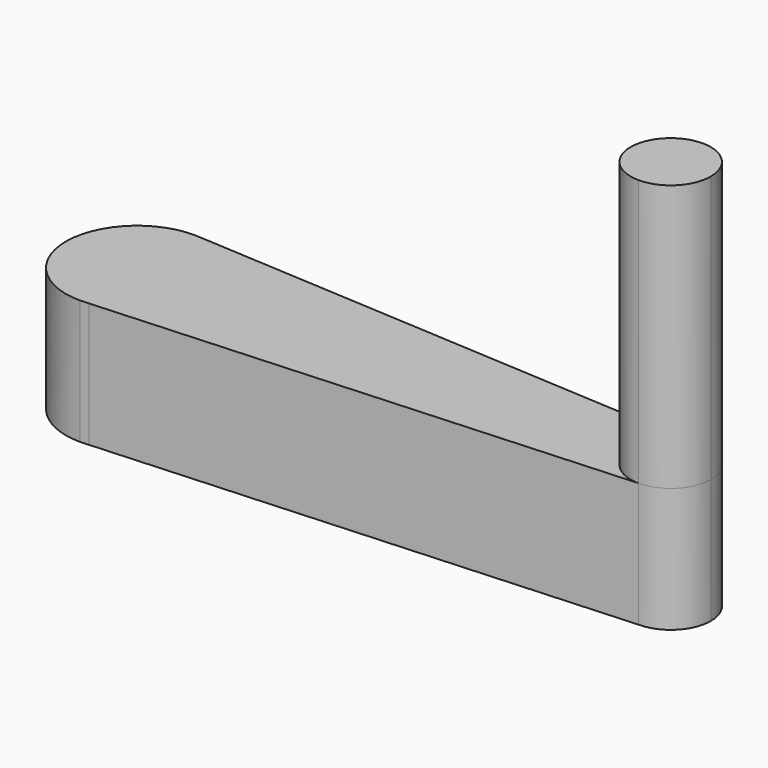
from build123d import *

# Parameters (mm, degrees)
F1_DEPTH = 15
F2_DEPTH = 7


with BuildPart() as f1:
    # F0 (on Top) → F1 (new body)
    with BuildSketch(Plane.XY):
        with BuildLine():
            ThreePointArc((0, 2.25), (-1.5909902577, 1.5909902577), (-2.25, 0))
            ThreePointArc((-2.25, 0), (-1.5909902577, -1.5909902577), (0, -2.25))
            ThreePointArc((0, -2.25), (1.5909902577, -1.5909902577), (2.25, 0))
            ThreePointArc((2.25, 0), (1.5909902577, 1.5909902577), (0, 2.25))
        make_face()
    extrude(amount=F1_DEPTH)

    # F0 (on Top) → F2 (join)
    with BuildSketch(Plane.XY):
        with BuildLine():
            ThreePointArc((0, -2.25), (-1.5909902577, -1.5909902577), (-2.25, 0))
            Line((-2.25, 0), (-26, 0))
            ThreePointArc((-26, 0), (-27.0080973177, -2.654904582), (-29.5242591698, -3.9716080701))
            Line((-29.5242591698, -3.9716080701), (0, -2.25))
        make_face()
        with BuildLine():
            Line((-26, 0), (-2.25, 0))
            ThreePointArc((-2.25, 0), (-1.5909902577, 1.5909902577), (0, 2.25))
            Line((0, 2.25), (-29.6042658314, 3.9803761716))
            ThreePointArc((-29.6042658314, 3.9803761716), (-27.0349589653, 2.6848708838), (-26, 0))
        make_face()
        with BuildLine():
            ThreePointArc((-29.5242591698, -3.9716080701), (-27.0080973177, -2.654904582), (-26, 0))
            ThreePointArc((-26, 0), (-27.0349589653, 2.6848708838), (-29.6042658314, 3.9803761716))
            Line((-29.6042658314, 3.9803761716), (-29.929315846, 3.99937542))
            ThreePointArc((-29.929315846, 3.99937542), (-33.9997919627, 0.0407952813), (-30.0109041304, -3.9999851375))
            Line((-30.0109041304, -3.9999851375), (-29.5242591698, -3.9716080701))
        make_face()
        with BuildLine():
            ThreePointArc((0, 2.25), (-1.5909902577, 1.5909902577), (-2.25, 0))
            ThreePointArc((-2.25, 0), (-1.5909902577, -1.5909902577), (0, -2.25))
            ThreePointArc((0, -2.25), (1.5909902577, -1.5909902577), (2.25, 0))
            ThreePointArc((2.25, 0), (1.5909902577, 1.5909902577), (0, 2.25))
        make_face()
    extrude(amount=-F2_DEPTH)


solid = f1.part
